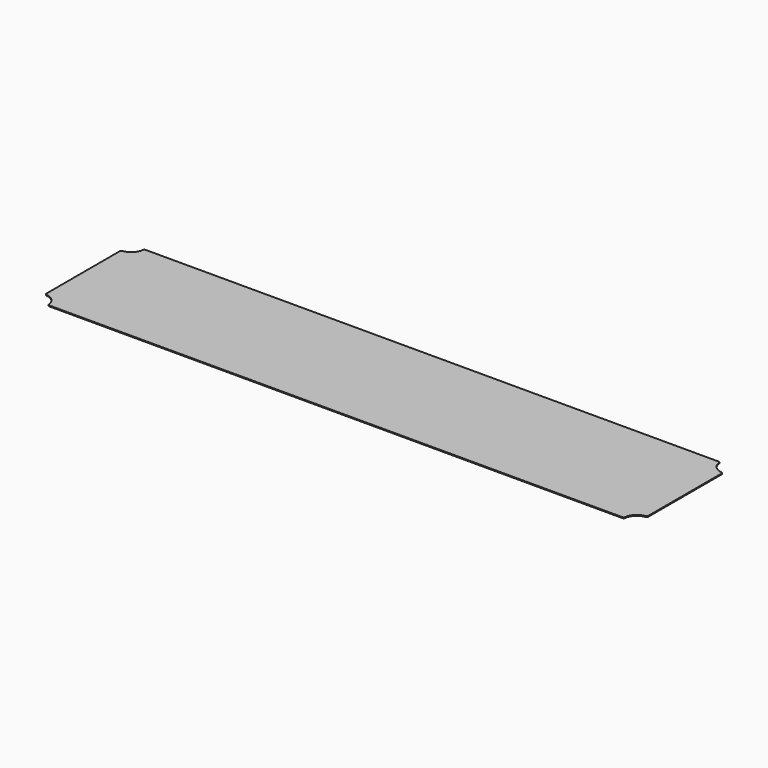
from build123d import *

# Parameters (mm, degrees)
F1_DEPTH = 1.01


with BuildPart() as f1:
    # F0 (on Top) → F1 (new body)
    with BuildSketch(Plane.XY):
        with BuildLine():
            Line((0, 70), (-333.118057, 70))
            ThreePointArc((-333.118057, 70), (-334.446479, 69.49509), (-335.104168, 68.235294))
            ThreePointArc((-335.104168, 68.235294), (-339.393398, 59.393398), (-348.235294, 55.104168))
            ThreePointArc((-348.235294, 55.104168), (-349.49509, 54.446479), (-350, 53.118057))
            Line((-350, 53.118057), (-350, 0))
            Line((-350, 0), (0, 0))
            Line((0, 0), (0, 70))
        make_face()
        with BuildLine():
            Line((333.118057, 70), (0, 70))
            Line((0, 70), (0, 0))
            Line((0, 0), (350, 0))
            Line((350, 0), (350, 53.118057))
            ThreePointArc((350, 53.118057), (349.49509, 54.446479), (348.235294, 55.104168))
            ThreePointArc((348.235294, 55.104168), (339.393398, 59.393398), (335.104168, 68.235294))
            ThreePointArc((335.104168, 68.235294), (334.446479, 69.49509), (333.118057, 70))
        make_face()
        with BuildLine():
            Line((0, -70), (0, 0))
            Line((0, 0), (-350, 0))
            Line((-350, 0), (-350, -53.118057))
            ThreePointArc((-350, -53.118057), (-349.49509, -54.446479), (-348.235294, -55.104168))
            ThreePointArc((-348.235294, -55.104168), (-339.393398, -59.393398), (-335.104168, -68.235294))
            ThreePointArc((-335.104168, -68.235294), (-334.446479, -69.49509), (-333.118057, -70))
            Line((-333.118057, -70), (0, -70))
        make_face()
        with BuildLine():
            Line((350, 0), (0, 0))
            Line((0, 0), (0, -70))
            Line((0, -70), (333.118057, -70))
            ThreePointArc((333.118057, -70), (334.446479, -69.49509), (335.104168, -68.235294))
            ThreePointArc((335.104168, -68.235294), (339.393398, -59.393398), (348.235294, -55.104168))
            ThreePointArc((348.235294, -55.104168), (349.49509, -54.446479), (350, -53.118057))
            Line((350, -53.118057), (350, 0))
        make_face()
    extrude(amount=F1_DEPTH)


solid = f1.part
